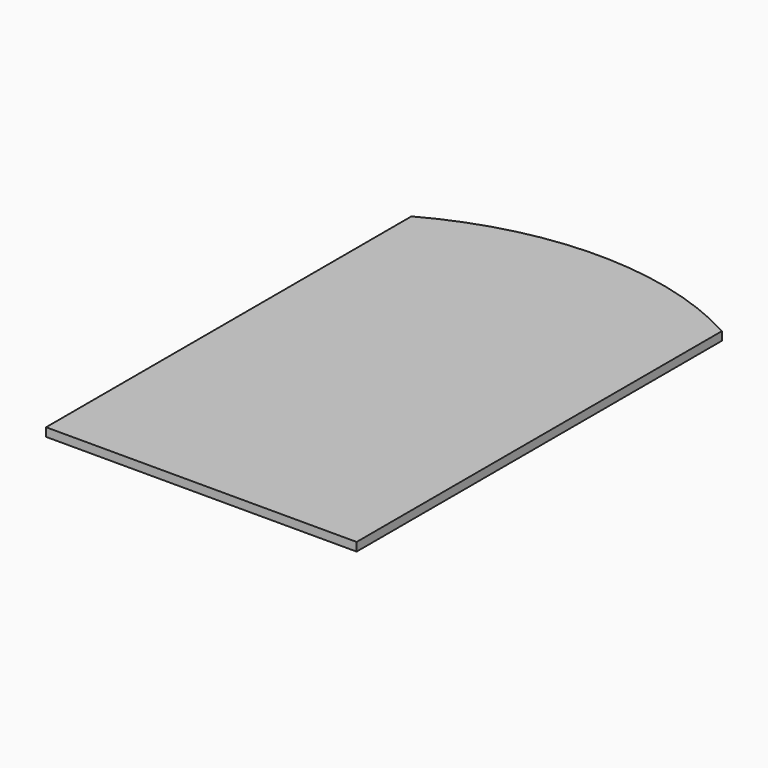
from build123d import *

# Parameters (mm, degrees)
PAD_DEPTH = 2.8


with BuildPart() as part:
    # Sketch001 → Pad (new body)
    with BuildSketch(Plane.XY):
        with BuildLine():
            ThreePointArc((51.0075, 92.853354), (0, 105.941071), (-51.0075, 92.853354))
            Line((-51.0075, 92.853354), (-51.0075, -0.146646))
            Line((-51.0075, -0.146646), (-51.0075, -13.146646))
            Line((-51.0075, -57.146646), (-51.0075, -13.146646))
            Line((-51.0075, -57.146646), (51.0075, -57.146646))
            Line((51.0075, -13.146646), (51.0075, -57.146646))
            Line((51.0075, -0.146646), (51.0075, -13.146646))
            Line((51.0075, 92.853354), (51.0075, -0.146646))
        make_face()
    extrude(amount=PAD_DEPTH)


solid = part.part
